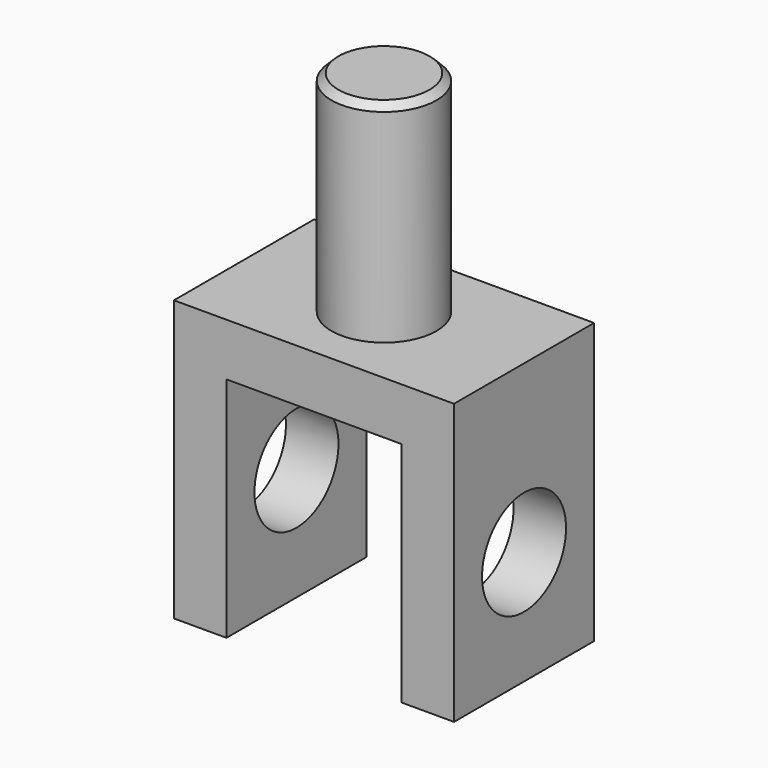
from build123d import *

# Parameters (mm, degrees)
F0_W     = 63.5
F0_H     = 38.1
F1_DEPTH = 127
F2_R     = 38.1
F3_DEPTH = 152.4
F4_SIZE  = 5.08
F6_D     = 76.2
F6_DEPTH = 38.101
F7_D     = 76.2


with BuildPart() as f1:
    # F0 (on Front) → F1 (new body)
    with BuildSketch(Plane.XZ):
        Polygon((137.8628114581, 133.5590133786), (99.7628114581, 133.5590133786), (99.7628114581, 95.4590133786), (99.7628114581, -69.6409866214), (137.8628114581, -69.6409866214), align=None)
        with Locations((68.0128114581, 114.5090133786)):
            Rectangle(F0_W, F0_H)
        with Locations((4.5128114581, 114.5090133786)):
            Rectangle(F0_W, F0_H)
        Polygon((-27.2371885419, 95.4590133786), (-27.2371885419, 133.5590133786), (-65.3371885419, 133.5590133786), (-65.3371885419, -69.6409866214), (-27.2371885419, -69.6409866214), align=None)
    extrude(amount=F1_DEPTH)

    # F2 (on face) → F3 (join)
    with BuildSketch(Plane.XY.offset(133.5590133786)):
        with Locations((36.2628114581, -63.5)):
            Circle(F2_R)
    extrude(amount=F3_DEPTH)

    # F4
    f4_edges = [f1.edges().sort_by_distance(p)[0] for p in [
        (-1.837189, -63.5, 285.959013),
    ]]
    chamfer(f4_edges, length=F4_SIZE)

    # F6 (through all, one way)
    with BuildSketch(Plane.YZ.offset(-27.2371885419)):
        with Locations((-63.5, 12.9090133786)):
            Circle(F6_D / 2)
    extrude(amount=-F6_DEPTH, mode=Mode.SUBTRACT)

    # F7 (through all)
    with Locations(Plane(origin=(-27.2371885419, 0, 0), x_dir=(0, 1, 0), z_dir=(-1, 0, 0))):
        with Locations((-63.5, -12.9090133786)):
            Hole(F7_D / 2)


solid = f1.part
